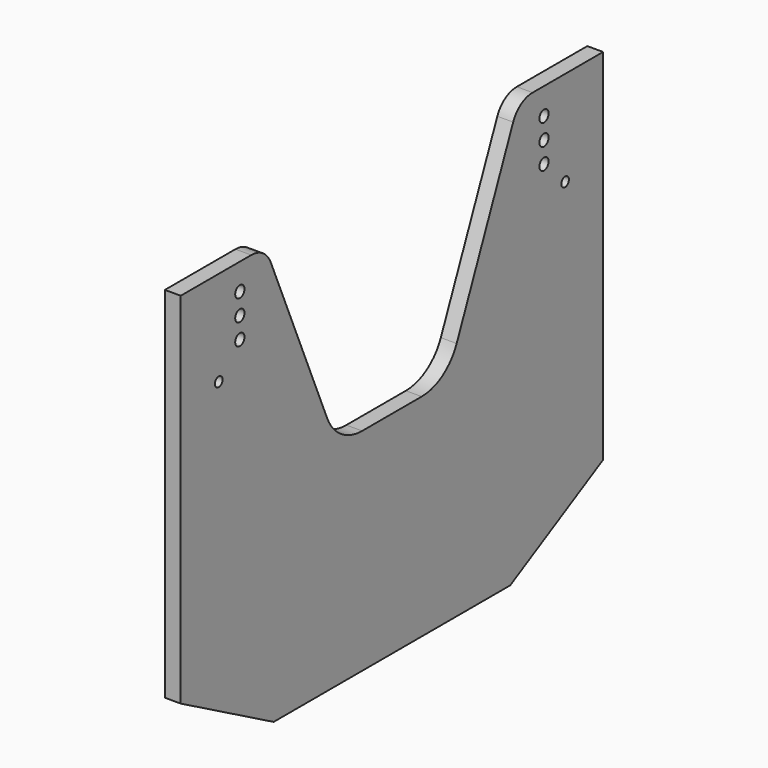
from build123d import *

# Parameters (mm, degrees)
F0_R     = 4.5
F0_R_2   = 5.5
F1_DEPTH = 15


with BuildPart() as f1:
    # F0 (on Right) → F1 (new body)
    with BuildSketch(Plane.YZ):
        with BuildLine():
            Line((-166.539142, 155), (-250, 155))
            Line((-250, 155), (-250, -185))
            Line((-250, -185), (-140, -245))
            Line((-140, -245), (0, -245))
            Line((0, -245), (140, -245))
            Line((140, -245), (250, -185))
            Line((250, -185), (250, 155))
            Line((250, 155), (166.539142, 155))
            ThreePointArc((166.539142, 155), (152.745356, 150.850215), (143.530869, 139.778516))
            Line((143.530869, 139.778516), (76.644435, -17.601329))
            ThreePointArc((76.644435, -17.601329), (60.05836, -37.530386), (35.229544, -45))
            Line((35.229544, -45), (0, -45))
            Line((0, -45), (-35.229544, -45))
            ThreePointArc((-35.229544, -45), (-60.05836, -37.530386), (-76.644435, -17.601329))
            Line((-76.644435, -17.601329), (-143.530869, 139.778516))
            ThreePointArc((-143.530869, 139.778516), (-152.745356, 150.850215), (-166.539142, 155))
        make_face()
        with Locations((-205, 65)):
            Circle(F0_R, mode=Mode.SUBTRACT)
        with Locations((-180, 90)):
            Circle(F0_R_2, mode=Mode.SUBTRACT)
        with Locations((-180, 110)):
            Circle(F0_R_2, mode=Mode.SUBTRACT)
        with Locations((-180, 130)):
            Circle(F0_R_2, mode=Mode.SUBTRACT)
        with Locations((180, 90)):
            Circle(F0_R_2, mode=Mode.SUBTRACT)
        with Locations((205, 65)):
            Circle(F0_R, mode=Mode.SUBTRACT)
        with Locations((180, 110)):
            Circle(F0_R_2, mode=Mode.SUBTRACT)
        with Locations((180, 130)):
            Circle(F0_R_2, mode=Mode.SUBTRACT)
    extrude(amount=F1_DEPTH)


solid = f1.part
